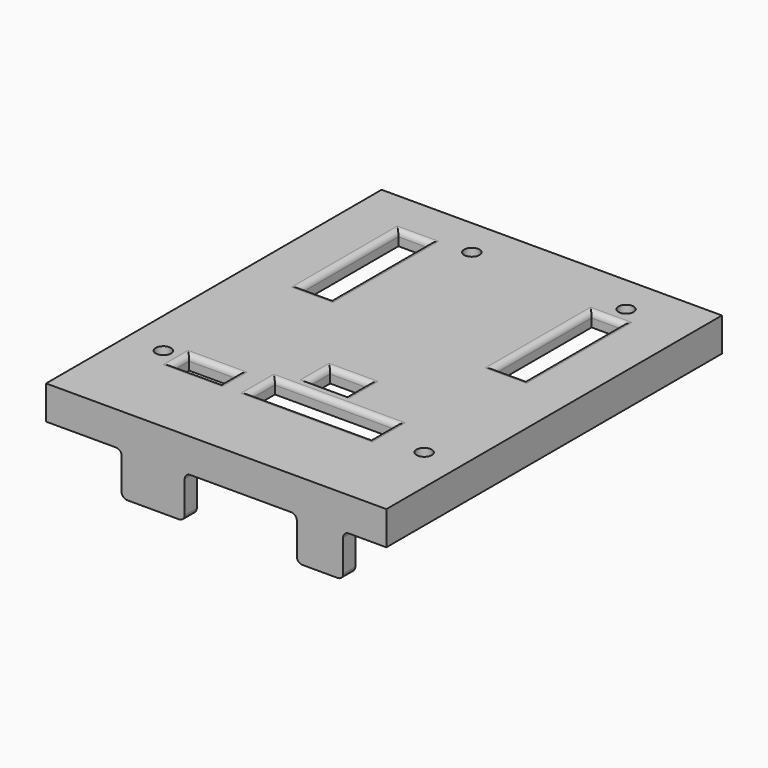
from build123d import *

# Parameters (mm, degrees)
SKETCH018_W   = 61.65
SKETCH018_H   = 75.98
SKETCH018_R   = 1.375
SKETCH018_W_2 = 21.82
SKETCH018_H_2 = 5.5
SKETCH018_W_3 = 8.7
SKETCH018_H_3 = 3.63
SKETCH018_W_4 = 6.9
SKETCH018_W_5 = 5.5
SKETCH018_H_4 = 21.975
SKETCH018_H_5 = 21.865
PAD011_DEPTH  = 2.5
SKETCH019_W   = 61.65
SKETCH019_H   = 75.98
SKETCH019_W_2 = 56.65
SKETCH019_H_2 = 70.73
PAD012_DEPTH  = 3.6
SKETCH020_W   = 11.43
SKETCH020_H   = 2.75
SKETCH020_W_2 = 8.39
PAD013_DEPTH  = 11.35
FILLET005_R   = 1


with BuildPart() as part:
    # Sketch018 → Pad011 (new body)
    with BuildSketch(Plane.XY):
        with Locations((0, -30.5)):
            Rectangle(SKETCH018_W, SKETCH018_H)
        with Locations((-8.89, 0.5)):
            Circle(SKETCH018_R, mode=Mode.SUBTRACT)
        with Locations((19.05, 0.5)):
            Circle(SKETCH018_R, mode=Mode.SUBTRACT)
        with Locations((-24.13, -50.3)):
            Circle(SKETCH018_R, mode=Mode.SUBTRACT)
        with Locations((24.13, -51.57)):
            Circle(SKETCH018_R, mode=Mode.SUBTRACT)
        with Locations((4.49, -49.92)):
            Rectangle(SKETCH018_W_2, SKETCH018_H_2, mode=Mode.SUBTRACT)
        with Locations((-16.12, -50.855)):
            Rectangle(SKETCH018_W_3, SKETCH018_H_3, mode=Mode.SUBTRACT)
        with Locations((1.03, -42.42)):
            Rectangle(SKETCH018_W_4, SKETCH018_H_2, mode=Mode.SUBTRACT)
        with Locations((-18.4, -11.7825)):
            Rectangle(SKETCH018_W_5, SKETCH018_H_4, mode=Mode.SUBTRACT)
        with Locations((18.475, -14.0775)):
            Rectangle(SKETCH018_W_5, SKETCH018_H_5, mode=Mode.SUBTRACT)
    extrude(amount=PAD011_DEPTH)

    # Sketch019 → Pad012 (join)
    with BuildSketch(Plane.XY):
        with Locations((0, -30.5)):
            Rectangle(SKETCH019_W, SKETCH019_H)
        with Locations((0, -30.375)):
            Rectangle(SKETCH019_W_2, SKETCH019_H_2, mode=Mode.SUBTRACT)
    extrude(amount=-PAD012_DEPTH)

    # Sketch020 → Pad013 (join)
    with BuildSketch(Plane.XY):
        with Locations((-11.43, -67.115)):
            Rectangle(SKETCH020_W, SKETCH020_H)
        with Locations((18.8, -67.115)):
            Rectangle(SKETCH020_W_2, SKETCH020_H)
    extrude(amount=-PAD013_DEPTH)

    # Fillet005
    fillet005_edges = [part.edges().sort_by_distance(p)[0] for p in [
        (-20.47, -50.855, 2.5),
        (-16.12, -49.04, 2.5),
        (-16.12, -52.67, 2.5),
        (-11.77, -50.855, 2.5),
        (-6.42, -49.92, 2.5),
        (4.49, -47.17, 2.5),
        (4.49, -52.67, 2.5),
        (15.4, -49.92, 2.5),
        (-2.42, -42.42, 2.5),
        (1.03, -39.67, 2.5),
        (4.48, -42.42, 2.5),
        (18.475, -3.145, 2.5),
        (21.225, -14.0775, 2.5),
        (15.725, -14.0775, 2.5),
        (18.475, -25.01, 2.5),
        (-18.4, -0.795, 2.5),
        (-15.65, -11.7825, 2.5),
        (-21.15, -11.7825, 2.5),
        (-18.4, -22.77, 2.5),
        (-17.145, -67.115, -3.6),
        (-17.145, -67.115, -11.35),
        (-5.715, -67.115, -11.35),
        (14.605, -67.115, -3.6),
        (14.605, -67.115, -11.35),
        (22.995, -67.115, -11.35),
        (-5.715, -67.115, -3.6),
        (22.995, -67.115, -3.6),
    ]]
    fillet(fillet005_edges, radius=FILLET005_R)


solid = part.part
